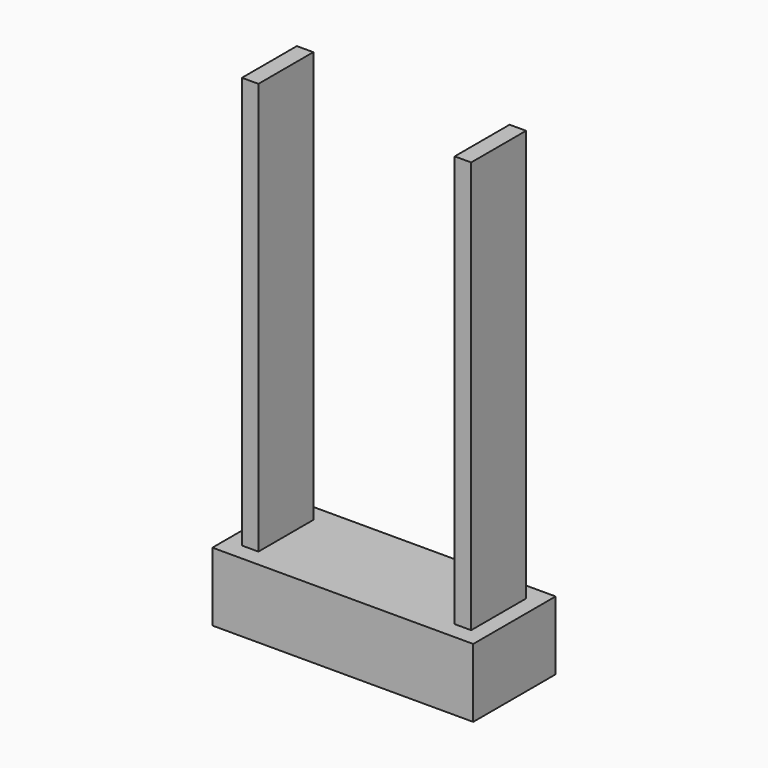
from build123d import *

# Parameters (mm, degrees)
F2_DEPTH = 60
F1_W     = 38
F1_H     = 15
F3_DEPTH = 10


with BuildPart() as f2:
    # F0 (on Top) → F2 (new body)
    with BuildSketch(Plane.XY):
        Polygon((14.3, 5), (14.3, 0), (14.3, -5), (16.7, -5), (16.7, 5), align=None)
    extrude(amount=F2_DEPTH)



with BuildPart() as f2b:
    # F0 (on Top) → F2, piece 2 (new body)
    with BuildSketch(Plane.XY):
        Polygon((-14.3, -5), (-14.3, 0), (-14.3, 5), (-16.7, 5), (-16.7, -5), align=None)
    extrude(amount=F2_DEPTH)


with BuildPart() as f2_1:
    add(f2.part)

    add(f2b.part)  # F3 merges F2b
    # F1 (on Top) → F3 (join)
    with BuildSketch(Plane.XY):
        Rectangle(F1_W, F1_H)
    extrude(amount=-F3_DEPTH)


solid = f2_1.part
